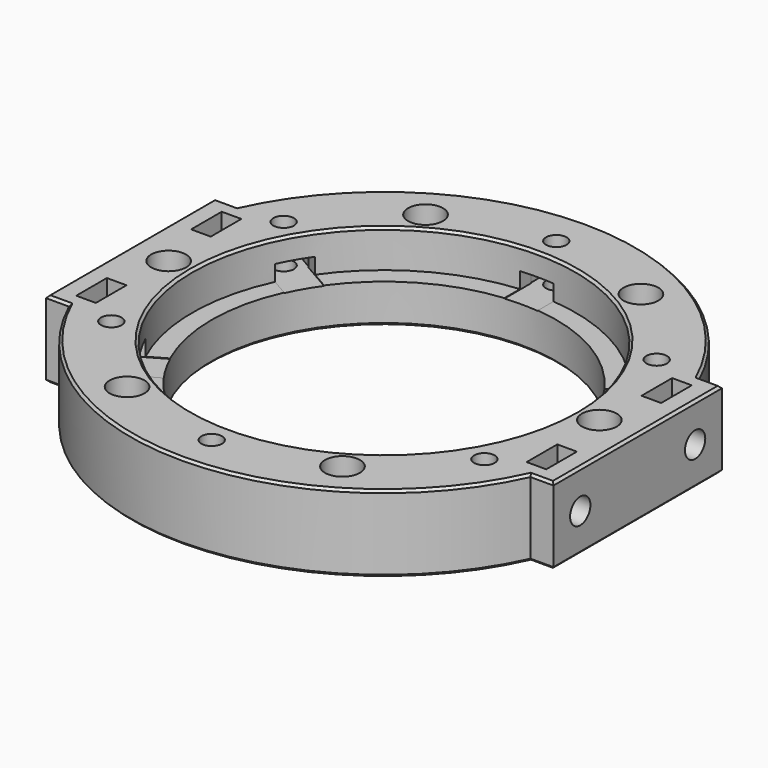
from build123d import *

# Parameters (mm, degrees)
CYLINDER014005885_R                               = 40.05
CYLINDER014005885_DEPTH                           = 16
CYLINDER014005887_R                               = 3.65
CYLINDER014005887_DEPTH                           = 4
CYLINDER014005886_R                               = 2.15
CYLINDER014005886_DEPTH                           = 24
FUSION001089102007007003008020_PLACEMENT_ANGLE    = 60
FUSION001089102007007003008021_PLACEMENT_ANGLE    = 120
FUSION001089102007007003008022_PLACEMENT_ANGLE    = 180
FUSION001089102007007003008018_PLACEMENT_ANGLE    = 240
FUSION001089102007007003008023_PLACEMENT_ANGLE    = 60
BOX006_W                                          = 7
BOX006_H                                          = 10
BOX006_DEPTH                                      = 3.4
PRISM006_DEPTH                                    = 3.4
CYLINDER014005888_R                               = 2.15
CYLINDER014005888_DEPTH                           = 16
FUSION001089102007007003008027_PLACEMENT_ANGLE    = 60
FUSION001089102007007003008028_PLACEMENT_ANGLE    = 120
FUSION001089102007007003008029_PLACEMENT_ANGLE    = 180
FUSION001089102007007003008030_PLACEMENT_ANGLE    = 240
FUSION001089102007007003008031_PLACEMENT_ANGLE    = 60
BOX007_W                                          = 4.1
BOX007_H                                          = 8
BOX007_DEPTH                                      = 10
CYLINDER014005889_R                               = 2.65
CYLINDER014005889_DEPTH                           = 14
PRISM007_DEPTH                                    = 4.2
BOX008_W                                          = 4.1
BOX008_H                                          = 8
BOX008_DEPTH                                      = 10
CYLINDER014005890_R                               = 2.65
CYLINDER014005890_DEPTH                           = 14
PRISM008_DEPTH                                    = 4.2
FUSION001089102007007003008033001_PLACEMENT_ANGLE = 180
FUSION001089102007007003008034001_PLACEMENT_ANGLE = 180
CYLINDER014005884_R                               = 36
CYLINDER014005884_DEPTH                           = 16
BOX005_W                                          = 10
BOX005_H                                          = 44
BOX005_DEPTH                                      = 16
BOX009_W                                          = 10
BOX009_H                                          = 44
BOX009_DEPTH                                      = 16
CYLINDER014005883_R                               = 53
CYLINDER014005883_DEPTH                           = 16
CHAMFER014_SIZE                                   = 0.5


with BuildPart() as obj1:
    # Cylinder014005885 → Cylinder014005885 (new body)
    with BuildSketch(Plane.XY.offset(0.1)):
        Circle(CYLINDER014005885_R)
    extrude(amount=CYLINDER014005885_DEPTH)


with BuildPart() as obj2:
    # Cylinder014005887 → Cylinder014005887 (new body)
    with BuildSketch(Plane(origin=(45, 0, 4), x_dir=(1, 0, 0), z_dir=(0, 0, 1))):
        Circle(CYLINDER014005887_R)
    extrude(amount=CYLINDER014005887_DEPTH)


with BuildPart() as obj3:
    # Cylinder014005886 → Cylinder014005886 (new body)
    with BuildSketch(Plane(origin=(45, 0, -16), x_dir=(1, 0, 0), z_dir=(0, 0, 1))):
        Circle(CYLINDER014005886_R)
    extrude(amount=CYLINDER014005886_DEPTH)

    # Fusion001089102007007003008017: union obj2
    add(obj2.part)


with BuildPart() as obj4:
    # Fusion001089102007007003008020 base: copy of obj3
    add(obj3.part)


with BuildPart() as obj4_1:
    # Fusion001089102007007003008020 placement: moved
    add(obj4.part.rotate(Axis((0, 0, 0), (0, 0, 1)), FUSION001089102007007003008020_PLACEMENT_ANGLE))


with BuildPart() as obj5:
    # Fusion001089102007007003008021 base: copy of obj3
    add(obj3.part)


with BuildPart() as obj5_1:
    # Fusion001089102007007003008021 placement: moved
    add(obj5.part.rotate(Axis((0, 0, 0), (0, 0, 1)), FUSION001089102007007003008021_PLACEMENT_ANGLE))


with BuildPart() as obj6:
    # Fusion001089102007007003008022 base: copy of obj3
    add(obj3.part)


with BuildPart() as obj6_1:
    # Fusion001089102007007003008022 placement: moved
    add(obj6.part.rotate(Axis((0, 0, 0), (0, 0, 1)), FUSION001089102007007003008022_PLACEMENT_ANGLE))


with BuildPart() as obj7:
    # Fusion001089102007007003008018 base: copy of obj3
    add(obj3.part)


with BuildPart() as obj7_1:
    # Fusion001089102007007003008018 placement: moved
    add(obj7.part.rotate(Axis((0, 0, 0), (0, 0, 1)), FUSION001089102007007003008018_PLACEMENT_ANGLE))


with BuildPart() as obj8:
    # Fusion001089102007007003008023 base: copy of obj3
    add(obj3.part)


with BuildPart() as obj8_1:
    # Fusion001089102007007003008023 placement: moved
    add(obj8.part.rotate(Axis((0, 0, 0), (0, 0, -1)), FUSION001089102007007003008023_PLACEMENT_ANGLE))


with BuildPart() as fusion001089102007007003008024:
    # Fusion001089102007007003008024 base: copy of obj3
    add(obj3.part)

    # Fusion001089102007007003008024: union obj4, obj5, obj6, obj7, obj8
    add(obj4_1.part)
    add(obj5_1.part)
    add(obj6_1.part)
    add(obj7_1.part)
    add(obj8_1.part)


with BuildPart() as krychle006:
    # Box006 → Box006 (new body)
    with BuildSketch(Plane(origin=(-3.5, 0, 0), x_dir=(1, 0, 0), z_dir=(0, 0, 1))):
        with Locations((3.5, 5)):
            Rectangle(BOX006_W, BOX006_H)
    extrude(amount=BOX006_DEPTH)


with BuildPart() as m4x004:
    # prism006 → prism006 (new body)
    with BuildSketch(Plane(origin=(0, 0, 0), x_dir=(0, 1, 0), z_dir=(0, 0, 1))):
        Polygon((4.21, 0), (2.105, 3.645967), (-2.105, 3.645967), (-4.21, 0), (-2.105, -3.645967), (2.105, -3.645967), align=None)
    extrude(amount=PRISM006_DEPTH)


with BuildPart() as m4nut006:
    # Cylinder014005888 → Cylinder014005888 (new body)
    with BuildSketch(Plane.XY.offset(-8)):
        Circle(CYLINDER014005888_R)
    extrude(amount=CYLINDER014005888_DEPTH)

    # Fusion001089102007007003008026: union Krychle006, M4X004
    add(krychle006.part)
    add(m4x004.part)


with BuildPart() as m4nut006_1:
    # Fusion001089102007007003008026 placement: moved
    add(m4nut006.part.moved(Location((0, -45, 0))))


with BuildPart() as m4nut007:
    # Fusion001089102007007003008027 base: copy of M4nut006
    add(m4nut006_1.part)


with BuildPart() as m4nut007_1:
    # Fusion001089102007007003008027 placement: moved
    add(m4nut007.part.rotate(Axis((0, 0, 0), (0, 0, 1)), FUSION001089102007007003008027_PLACEMENT_ANGLE))


with BuildPart() as m4nut008:
    # Fusion001089102007007003008028 base: copy of M4nut006
    add(m4nut006_1.part)


with BuildPart() as m4nut008_1:
    # Fusion001089102007007003008028 placement: moved
    add(m4nut008.part.rotate(Axis((0, 0, 0), (0, 0, 1)), FUSION001089102007007003008028_PLACEMENT_ANGLE))


with BuildPart() as m4nut009:
    # Fusion001089102007007003008029 base: copy of M4nut006
    add(m4nut006_1.part)


with BuildPart() as m4nut009_1:
    # Fusion001089102007007003008029 placement: moved
    add(m4nut009.part.rotate(Axis((0, 0, 0), (0, 0, 1)), FUSION001089102007007003008029_PLACEMENT_ANGLE))


with BuildPart() as m4nut010:
    # Fusion001089102007007003008030 base: copy of M4nut006
    add(m4nut006_1.part)


with BuildPart() as m4nut010_1:
    # Fusion001089102007007003008030 placement: moved
    add(m4nut010.part.rotate(Axis((0, 0, 0), (0, 0, 1)), FUSION001089102007007003008030_PLACEMENT_ANGLE))


with BuildPart() as m4nut011:
    # Fusion001089102007007003008031 base: copy of M4nut006
    add(m4nut006_1.part)


with BuildPart() as m4nut011_1:
    # Fusion001089102007007003008031 placement: moved
    add(m4nut011.part.rotate(Axis((0, 0, 0), (0, 0, -1)), FUSION001089102007007003008031_PLACEMENT_ANGLE))


with BuildPart() as fusion001089102007007003008032:
    # Fusion001089102007007003008032 base: copy of M4nut006
    add(m4nut006_1.part)

    # Fusion001089102007007003008032: union M4nut007, M4nut008, M4nut009, M4nut010, M4nut011
    add(m4nut007_1.part)
    add(m4nut008_1.part)
    add(m4nut009_1.part)
    add(m4nut010_1.part)
    add(m4nut011_1.part)


with BuildPart() as krychle007:
    # Box007 → Box007 (new body)
    with BuildSketch(Plane(origin=(0, -4, 0), x_dir=(1, 0, 0), z_dir=(0, 0, 1))):
        with Locations((2.05, 4)):
            Rectangle(BOX007_W, BOX007_H)
    extrude(amount=BOX007_DEPTH)


with BuildPart() as obj9:
    # Cylinder014005889 → Cylinder014005889 (new body)
    with BuildSketch(Plane(origin=(-4, 0, 0), x_dir=(0, 0, -1), z_dir=(1, 0, 0))):
        Circle(CYLINDER014005889_R)
    extrude(amount=CYLINDER014005889_DEPTH)


with BuildPart() as m007:
    # prism007 → prism007 (new body)
    with BuildSketch(Plane(origin=(0, 0, 0), x_dir=(0, 0, -1), z_dir=(1, 0, 0))):
        Polygon((4.6, 0), (2.3, 3.983717), (-2.3, 3.983717), (-4.6, 0), (-2.3, -3.983717), (2.3, -3.983717), align=None)
    extrude(amount=PRISM007_DEPTH)

    # Fusion001089102007007003008033: union Krychle007, obj9
    add(krychle007.part)
    add(obj9.part)


with BuildPart() as m007_1:
    # Fusion001089102007007003008033 placement: moved
    add(m007.part.moved(Location((45, 15, 0))))


with BuildPart() as krychle008:
    # Box008 → Box008 (new body)
    with BuildSketch(Plane(origin=(0, -4, 0), x_dir=(1, 0, 0), z_dir=(0, 0, 1))):
        with Locations((2.05, 4)):
            Rectangle(BOX008_W, BOX008_H)
    extrude(amount=BOX008_DEPTH)


with BuildPart() as obj10:
    # Cylinder014005890 → Cylinder014005890 (new body)
    with BuildSketch(Plane(origin=(-4, 0, 0), x_dir=(0, 0, -1), z_dir=(1, 0, 0))):
        Circle(CYLINDER014005890_R)
    extrude(amount=CYLINDER014005890_DEPTH)


with BuildPart() as m008:
    # prism008 → prism008 (new body)
    with BuildSketch(Plane(origin=(0, 0, 0), x_dir=(0, 0, -1), z_dir=(1, 0, 0))):
        Polygon((4.6, 0), (2.3, 3.983717), (-2.3, 3.983717), (-4.6, 0), (-2.3, -3.983717), (2.3, -3.983717), align=None)
    extrude(amount=PRISM008_DEPTH)

    # Fusion001089102007007003008034: union Krychle008, obj10
    add(krychle008.part)
    add(obj10.part)


with BuildPart() as m008_1:
    # Fusion001089102007007003008034 placement: moved
    add(m008.part.moved(Location((45, -15, 0))))


with BuildPart() as m009:
    # Fusion001089102007007003008033001 base: copy of M007
    add(m007_1.part)


with BuildPart() as m009_1:
    # Fusion001089102007007003008033001 placement: moved
    add(m009.part.rotate(Axis((0, 0, 0), (0, 0, 1)), FUSION001089102007007003008033001_PLACEMENT_ANGLE))


with BuildPart() as m010:
    # Fusion001089102007007003008034001 base: copy of M008
    add(m008_1.part)


with BuildPart() as m010_1:
    # Fusion001089102007007003008034001 placement: moved
    add(m010.part.rotate(Axis((0, 0, 0), (0, 0, 1)), FUSION001089102007007003008034001_PLACEMENT_ANGLE))


with BuildPart() as fusion001089102007007003008019:
    # Cylinder014005884 → Cylinder014005884 (new body)
    with BuildSketch(Plane.XY.offset(-8)):
        Circle(CYLINDER014005884_R)
    extrude(amount=CYLINDER014005884_DEPTH)

    add(obj1.part)
    add(fusion001089102007007003008024.part)
    add(fusion001089102007007003008032.part)
    add(m007_1.part)
    add(m008_1.part)
    add(m009_1.part)
    add(m010_1.part)


with BuildPart() as krychle005:
    # Box005 → Box005 (new body)
    with BuildSketch(Plane(origin=(43, -22, -8), x_dir=(1, 0, 0), z_dir=(0, 0, 1))):
        with Locations((5, 22)):
            Rectangle(BOX005_W, BOX005_H)
    extrude(amount=BOX005_DEPTH)


with BuildPart() as krychle009:
    # Box009 → Box009 (new body)
    with BuildSketch(Plane(origin=(-53, -22, -8), x_dir=(1, 0, 0), z_dir=(0, 0, 1))):
        with Locations((5, 22)):
            Rectangle(BOX009_W, BOX009_H)
    extrude(amount=BOX009_DEPTH)


with BuildPart() as obj11:
    # Cylinder014005883 → Cylinder014005883 (new body)
    with BuildSketch(Plane.XY.offset(-8)):
        Circle(CYLINDER014005883_R)
    extrude(amount=CYLINDER014005883_DEPTH)

    # Fusion001089102007007003008025: union Krychle005, Krychle009
    add(krychle005.part)
    add(krychle009.part)

    # Cut009003003009003003: cut Fusion001089102007007003008019
    add(fusion001089102007007003008019.part, mode=Mode.SUBTRACT)

    # Chamfer014
    chamfer014_edges = [obj11.edges().sort_by_distance(p)[0] for p in [
        (0, -53, -8),
        (0, -53, 8),
        (50.609127, -22, -8),
        (50.609127, -22, 8),
        (-50.609127, -22, -8),
        (-50.609127, -22, 8),
        (-53, 0, -8),
        (-50.609127, 22, -8),
        (0, 53, -8),
        (50.609127, 22, -8),
        (53, 0, -8),
        (-36, 0, -8),
        (0, 53, 8),
        (50.609127, 22, 8),
        (-50.609127, 22, 8),
        (-40.05, 0, 8),
        (53, 0, 8),
        (-53, 0, 8),
    ]]
    chamfer(chamfer014_edges, length=CHAMFER014_SIZE)


solid = obj11.part
